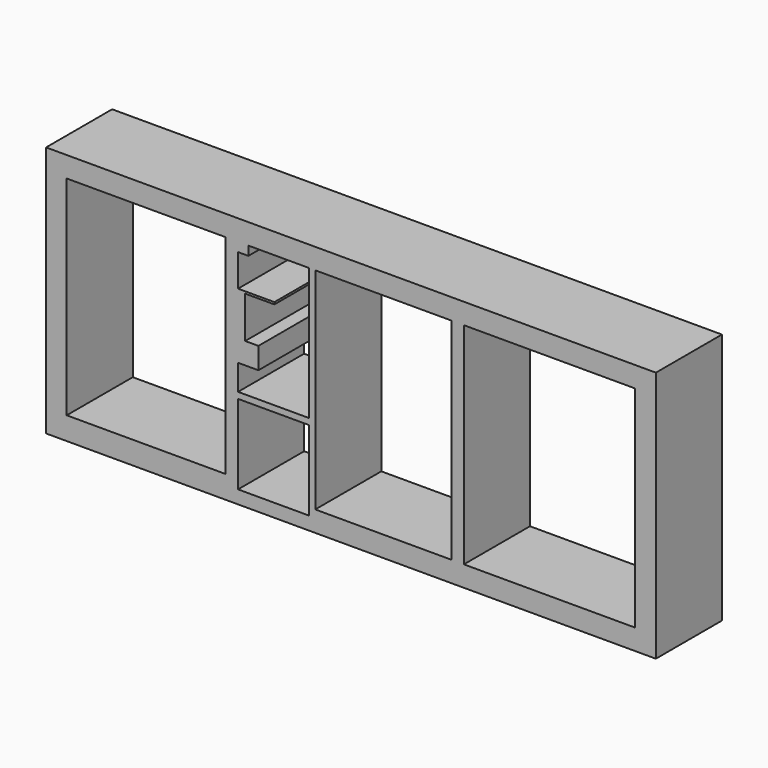
from build123d import *

# Parameters (mm, degrees)
F0_W     = 14770
F0_H     = 6100
F0_W_2   = 1720
F0_H_2   = 1930
F0_W_3   = 3850
F0_H_3   = 5050
F0_W_4   = 3300
F0_H_4   = 5100
F0_W_5   = 4150
F1_DEPTH = 2000


with BuildPart() as f1:
    # F0 (on Front) → F1 (new body)
    with BuildSketch(Plane.XZ):
        with Locations((3787.843182, 650)):
            Rectangle(F0_W, F0_H)
        with Locations((1912.843182, -1115)):
            Rectangle(F0_W_2, F0_H_2, mode=Mode.SUBTRACT)
        with Locations((-1172.156818, 675)):
            Rectangle(F0_W_3, F0_H_3, mode=Mode.SUBTRACT)
        Polygon((2772.843182, 0), (1052.843182, 0), (1052.843182, 620), (1545.490212, 620), (1545.490212, 1140), (1225.490212, 1140), (1225.490212, 2150), (1932.843182, 2150), (1932.843182, 2200), (1052.843182, 2200), (1052.843182, 2980), (1302.843182, 2980), (1302.843182, 3200), (2772.843182, 3200), align=None, mode=Mode.SUBTRACT)
        with Locations((4572.843182, 650)):
            Rectangle(F0_W_4, F0_H_4, mode=Mode.SUBTRACT)
        with Locations((8597.843182, 650)):
            Rectangle(F0_W_5, F0_H_4, mode=Mode.SUBTRACT)
    extrude(amount=F1_DEPTH)


solid = f1.part
